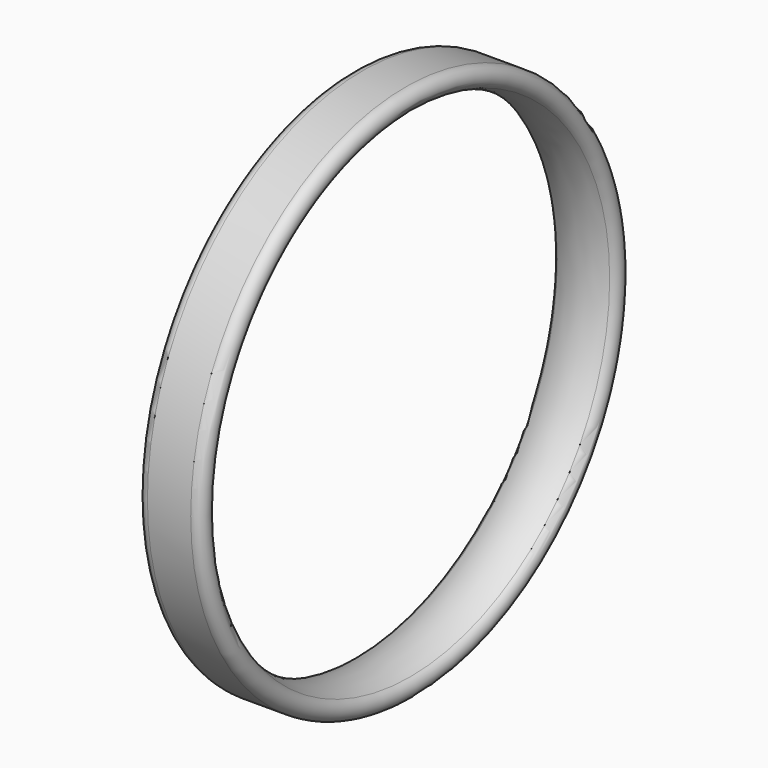
from build123d import *


with BuildPart() as part:
    # Sketch → Revolution (revolve)
    with BuildSketch(Plane.XY):
        with BuildLine():
            Line((40, -1054.92), (210, -1054.92))
            ThreePointArc((210, -1054.92), (248.936687, -1024.081573), (227.836066, -979.116721))
            ThreePointArc((227.836066, -979.116721), (125, -954.92), (22.163934, -979.116721))
            ThreePointArc((22.163934, -979.116721), (1.063313, -1024.081573), (40, -1054.92))
        make_face()
    revolve(axis=Axis((0, 0, 0), (1, 0, 0)))


solid = part.part
